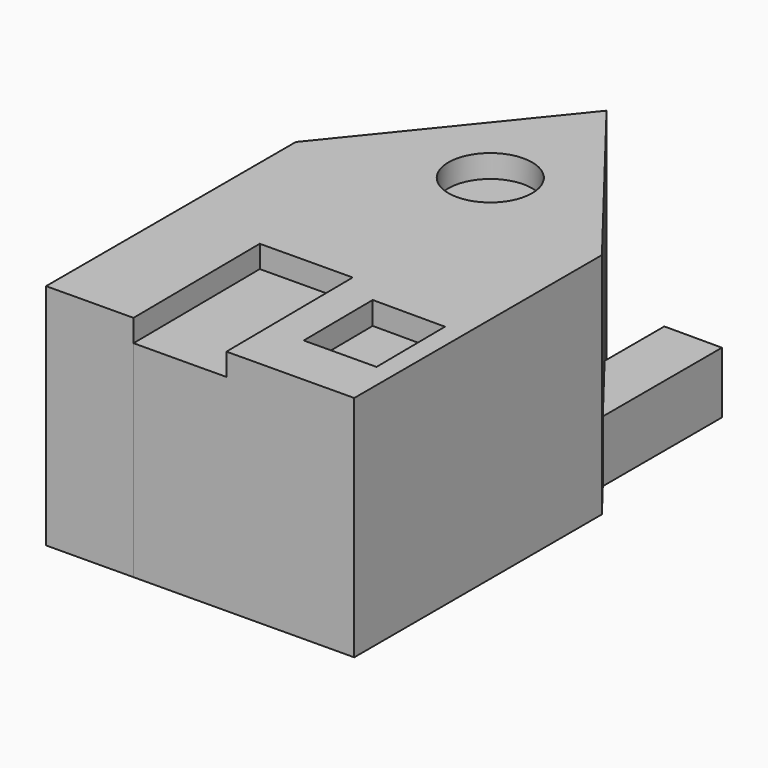
from build123d import *

# Parameters (mm, degrees)
F0_R     = 9.3096662381
F1_DEPTH = 50.8
F2_DEPTH = 13.66946
F3_DEPTH = 45.83504
F4_START = 5.08
F4_DEPTH = 40.64
F5_START = 5.08
F5_DEPTH = 40.64


with BuildPart() as f1:
    # F0 (on Top) → F1 (new body)
    with BuildSketch(Plane.XY):
        Polygon((-51.3433143497, 0), (-51.3433143497, -69.4561004639), (-32.0200270793, -69.294249187), (-32.3172560351, -33.8083351523), (-11.77348243, -33.6362611184), (-11.4762534741, -69.122175153), (16.7662296444, -68.8856169581), (16.7662296444, 0), (10.2686649188, 8.3737781411), (-2.5458205626, 24.8885283509), (-16.5439583361, 42.9287180305), align=None)
        Polygon((-3.6103976934, -57.465070353), (-3.772769589, -38.0796268582), (12.3200837265, -38.0858059556), (12.4812749246, -57.3302869839), align=None, mode=Mode.SUBTRACT)
        with Locations((-16.5439583361, 10.5952649524)):
            Circle(F0_R, mode=Mode.SUBTRACT)
    extrude(amount=F1_DEPTH)

    # F0 (on Top) → F2 (join)
    with BuildSketch(Plane.XY):
        Polygon((-2.5458205626, 41.5025129914), (-2.5458205626, 24.8885283509), (10.2686649188, 8.3737781411), (10.2686649188, 41.5025129914), align=None)
    extrude(amount=F2_DEPTH)

    # F0 (on Top) → F3 (join)
    with BuildSketch(Plane.XY):
        Polygon((-32.3172560351, -33.8083351523), (-32.0200270793, -69.294249187), (-11.4762534741, -69.122175153), (-11.77348243, -33.6362611184), align=None)
    extrude(amount=F3_DEPTH)

    # F0 (on Top) → F4 (join)
    with BuildSketch(Plane.XY.offset(F4_START)):
        Polygon((12.3200837265, -38.0858059556), (-3.772769589, -38.0796268582), (-3.6103976934, -57.465070353), (12.4812749246, -57.3302869839), align=None)
    extrude(amount=F4_DEPTH)

    # F0 (on Top) → F5 (join)
    with BuildSketch(Plane.XY.offset(F5_START)):
        with Locations((-16.5439583361, 10.5952649524)):
            Circle(F0_R)
    extrude(amount=F5_DEPTH)


solid = f1.part
